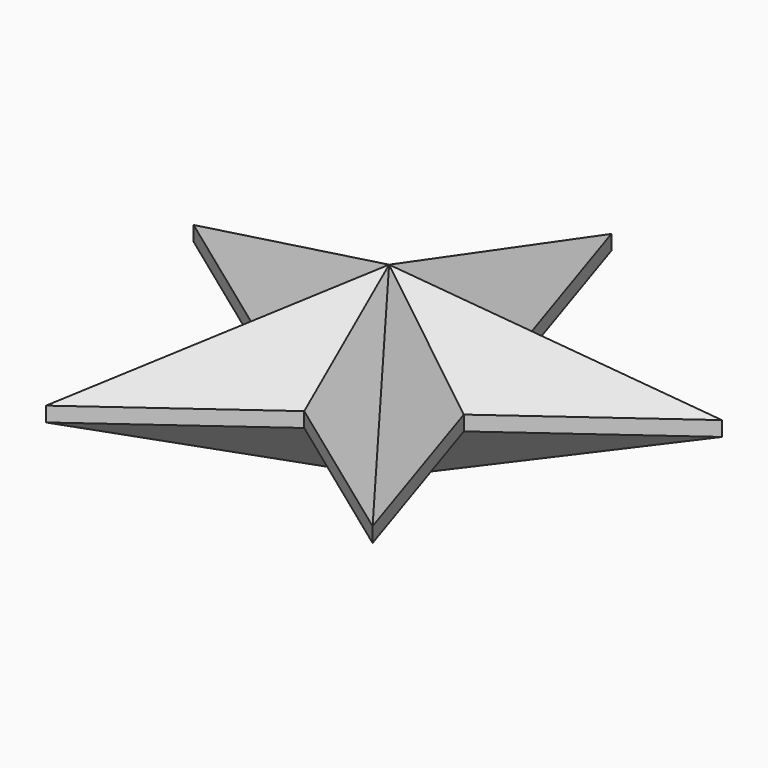
from build123d import *

# Parameters (mm, degrees)
F1_DEPTH = 25
F2_SIZE  = 23


with BuildPart() as f1:
    # F0 (on Top) → F1 (new body)
    with BuildSketch(Plane.XY):
        Polygon((16.8215913544, 23.1529342137), (0, 74.9244689941), (-16.8215913544, 23.1529342137), align=None)
        Polygon((-16.8215913544, 23.1529342137), (-71.2574044668, 23.1529342137), (-27.2179065562, -8.8436339303), align=None)
        Polygon((27.2179065562, -8.8436339303), (71.2574044668, 23.1529342137), (16.8215913544, 23.1529342137), align=None)
        Polygon((-27.2179065562, -8.8436339303), (-44.0394979106, -60.6151687108), (0, -28.6186005667), align=None)
        Polygon((0, -28.6186005667), (44.0394979106, -60.6151687108), (27.2179065562, -8.8436339303), align=None)
        Polygon((16.8215913544, 23.1529342137), (-16.8215913544, 23.1529342137), (-27.2179065562, -8.8436339303), (0, -28.6186005667), (27.2179065562, -8.8436339303), align=None)
    extrude(amount=F1_DEPTH)

    # F2
    f2_edges = [f1.edges().sort_by_distance(p)[0] for p in [
        (8.410796, 49.038702, 25),
        (-8.410796, 49.038702, 25),
        (-44.039498, 23.152934, 25),
        (-49.237656, 7.15465, 25),
        (-35.628702, -34.729401, 25),
        (-22.019749, -44.616885, 25),
        (22.019749, -44.616885, 25),
        (35.628702, -34.729401, 25),
        (49.237656, 7.15465, 25),
        (44.039498, 23.152934, 25),
    ]]
    chamfer(f2_edges, length=F2_SIZE)

    # F3: F1 across plane


with BuildPart() as f1_1:
    add(f1.part)
    add(f1.part.mirror(Plane.XY))


solid = f1_1.part
